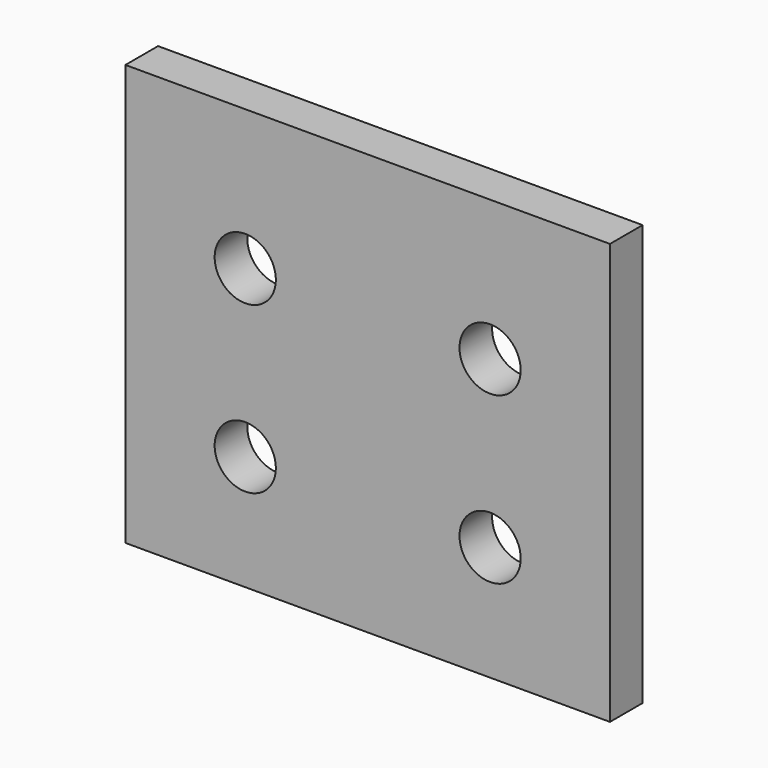
from build123d import *

# Parameters (mm, degrees)
F0_W     = 190
F0_H     = 165
F0_R     = 12
F1_DEPTH = 8


with BuildPart() as f1:
    # F0 (on Front) → F1 (new body, symmetric)
    with BuildSketch(Plane.XZ):
        Rectangle(F0_W, F0_H)
        with Locations((-48, -37.5)):
            Circle(F0_R, mode=Mode.SUBTRACT)
        with Locations((48, -37.5)):
            Circle(F0_R, mode=Mode.SUBTRACT)
        with Locations((-48, 27.5)):
            Circle(F0_R, mode=Mode.SUBTRACT)
        with Locations((48, 27.5)):
            Circle(F0_R, mode=Mode.SUBTRACT)
    extrude(amount=F1_DEPTH, both=True)


solid = f1.part
